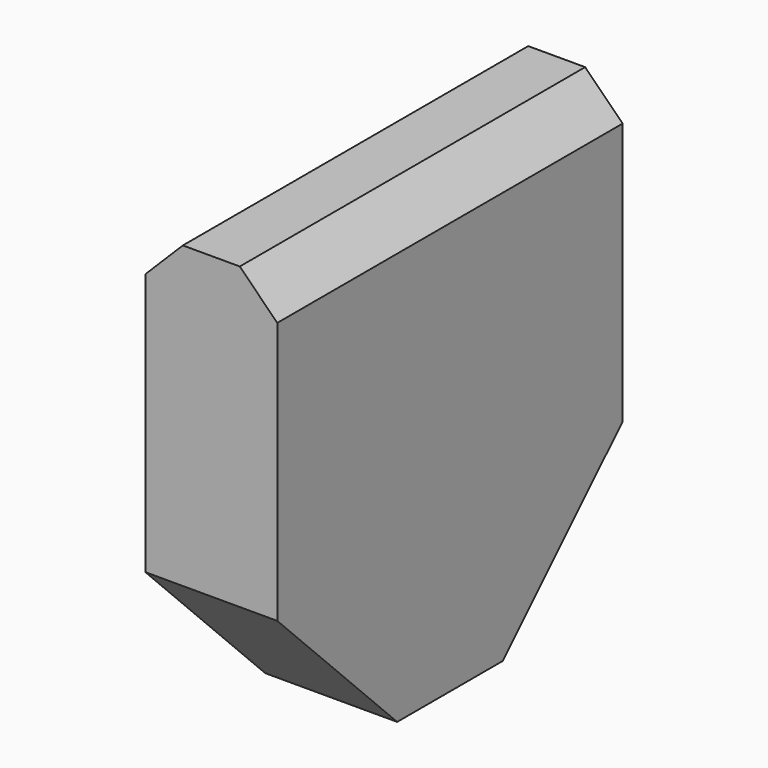
from build123d import *

# Parameters (mm, degrees)
F0_W     = 73.152
F0_H     = 76.2
F1_DEPTH = 22.352
F2_SIZE  = 25.4
F3_SIZE  = 6.35


with BuildPart() as f1:
    # F0 (on Right) → F1 (new body)
    with BuildSketch(Plane.YZ):
        with Locations((36.576, -38.1)):
            Rectangle(F0_W, F0_H)
    extrude(amount=F1_DEPTH)

    # F2
    f2_edges = [f1.edges().sort_by_distance(p)[0] for p in [
        (11.176, 0, -76.2),
        (11.176, 73.152, -76.2),
    ]]
    chamfer(f2_edges, length=F2_SIZE)

    # F3
    f3_edges = [f1.edges().sort_by_distance(p)[0] for p in [
        (0, 36.576, 0),
        (22.352, 36.576, 0),
    ]]
    chamfer(f3_edges, length=F3_SIZE)


solid = f1.part
